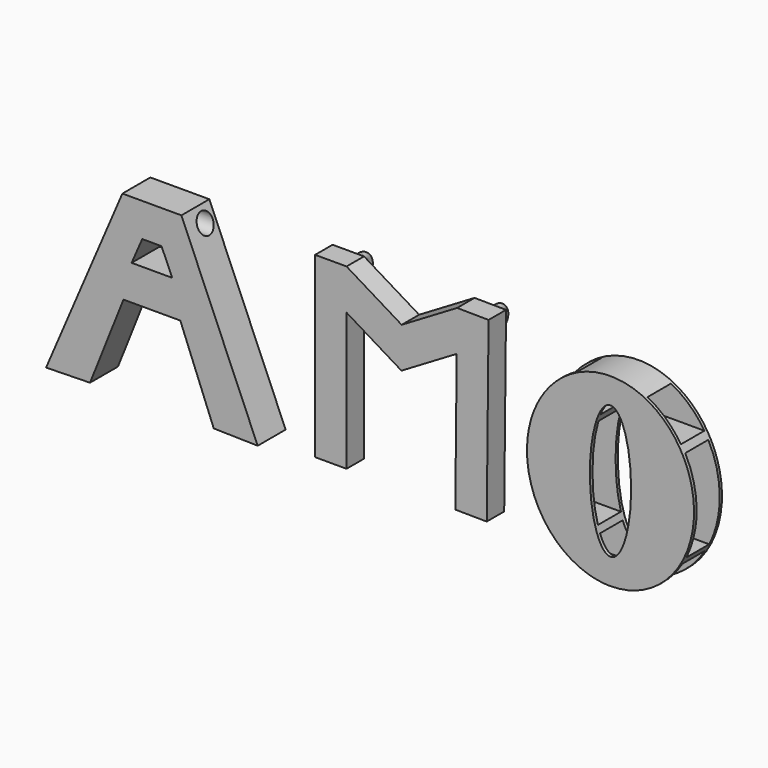
from build123d import *

# Parameters (mm, degrees)
F1_DEPTH       = 10.16
F3_DEPTH       = 6.35
F7_R           = 1.0147763436
F11_R          = 1.1188796437
F14_DEPTH      = 10.16
F16_R          = 2.7422770781
F17_DEPTH      = 25.4
F17_DEPTH_BACK = 25.4
F18_W          = 8.5491519421
F18_H          = 8.9241147507
F18_W_2        = 8.3874454722
F18_H_2        = 26.6651716083
F18_W_3        = 8.2461273414
F18_H_3        = 9.7091495991
F19_DEPTH      = 25.4
F19_DEPTH_BACK = 25.4


with BuildPart() as f1:
    # F0 (on Front) → F1 (new body)
    with BuildSketch(Plane.XZ):
        Polygon((8.5781961679, 0), (-8.5781961679, 0), (-30.7727456093, -51.771376282), (-17.9896689951, -51.4934845269), (-8.263412863, -27.038898319), (8.263412863, -27.038898319), (17.9896689951, -51.4934845269), (30.7727456093, -51.771376282), align=None)
        Polygon((5.8926227503, -16.8640967458), (-5.8926227503, -16.8640967458), (-2.8057238087, -9.7642270848), (2.8057238087, -9.7642270848), align=None, mode=Mode.SUBTRACT)
    extrude(amount=F1_DEPTH)

    # F16 (on Right) → F17 (cut, two sides)
    with BuildSketch(Plane.YZ) as f17_sk:
        with Locations((-3.704237286, -4.0700952522)):
            Circle(F16_R)
    extrude(amount=-F17_DEPTH, mode=Mode.SUBTRACT)
    extrude(f17_sk.sketch, amount=F17_DEPTH_BACK, mode=Mode.SUBTRACT)


with BuildPart() as f3:
    # F2 (on Front) → F3 (new body)
    with BuildSketch(Plane.XZ):
        Polygon((44.4193556905, 0), (44.4193556905, -51.8076792359), (53.5682961345, -51.8076792359), (53.5682961345, -11.7970751484), (69.5341005921, -21.4905999601), (85.5989950273, -11.9621949497), (85.1864927927, -51.9706725682), (94.3349469921, -52.0649965222), (94.86907498, -0.2600707418), (85.7206207805, -0.1657467879), (69.5947253384, -9.7303326959), (53.5682961345, 0), align=None)
        Polygon((44.4193556905, 0), (44.4193556905, -51.8076792359), (53.5682961345, -51.8076792359), (53.5682961345, -11.7970751484), (69.5341005921, -21.4905999601), (85.5989950273, -11.9621949497), (85.1864927927, -51.9706725682), (94.3349469921, -52.0649965222), (94.86907498, -0.2600707418), (85.7206207805, -0.1657467879), (69.5947253384, -9.7303326959), (53.5682961345, 0), align=None)
    extrude(amount=F3_DEPTH)

    # F8: sweep along a path in F6
    with BuildLine(Plane.YZ.offset(90.424)) as f8_path:
        Line((0, -2.2713777634), (2.3672888055, -2.2713777634))
        ThreePointArc((2.3672888055, -2.2713777634), (4.7681431261, -4.672232084), (2.3672888055, -7.0730864045))
        Line((2.3672888055, -7.0730864045), (0, -7.0730864045))
    # F7 (on face) → F8 (sweep)
    with BuildSketch(Plane(origin=(0, 0, 0), x_dir=(-1, 0, 0), z_dir=(0, 1, 0))):
        with Locations((-90.424, -2.2713777634)):
            Circle(F7_R)
    sweep(path=f8_path.line)

    # F12: sweep along a path in F10
    with BuildLine(Plane.YZ.offset(50.8)) as f12_path:
        Line((0, -2.0906312857), (2.3128504399, -2.0906312857))
        ThreePointArc((2.3128504399, -2.0906312857), (4.8720561899, -4.6498370357), (2.3128504399, -7.2090427857))
        Line((2.3128504399, -7.2090427857), (0, -7.2090427857))
    # F11 (on Front) → F12 (sweep)
    with BuildSketch(Plane.XZ):
        with Locations((50.8, -2.0906312857)):
            Circle(F11_R)
    sweep(path=f12_path.line)


with BuildPart() as f14:
    # F13 (on Front) → F14 (new body)
    with BuildSketch(Plane.XZ):
        with BuildLine():
            add(Edge.make_bspline(
                [(133.3755403757, -54.3517478871), (175.4543827327, -54.3517478871), (154.4149615542, -14.0031087613), (133.3755403757, 26.3455303645), (112.3361191972, -14.0031087613), (91.2966980187, -54.3517478871), (133.3755403757, -54.3517478871)],
                knots=[0, 0, 0, 2.0943951024, 2.0943951024, 4.1887902048, 4.1887902048, 6.2831853072, 6.2831853072, 6.2831853072], degree=2, weights=[1, 0.5, 1, 0.5, 1, 0.5, 1]))
        make_face()
        with BuildLine():
            add(Edge.make_bspline(
                [(133.3755403757, -46.8408575095), (143.780368723, -46.8408575095), (138.5779545494, -17.7585539501), (133.3755403757, 11.3237496093), (128.173126202, -17.7585539501), (122.9707120284, -46.8408575095), (133.3755403757, -46.8408575095)],
                knots=[0, 0, 0, 2.0943951024, 2.0943951024, 4.1887902048, 4.1887902048, 6.2831853072, 6.2831853072, 6.2831853072], degree=2, weights=[1, 0.5, 1, 0.5, 1, 0.5, 1]))
        make_face(mode=Mode.SUBTRACT)
    extrude(amount=F14_DEPTH)

    # F18 (on offset) → F19 (cut, two sides)
    with BuildSketch(Plane.YZ.offset(133.35)) as f19_sk:
        with Locations((-5.0842342898, -7.4528319528)):
            Rectangle(F18_W, F18_H)
        with Locations((-5.0033810548, -27.192206122)):
            Rectangle(F18_W_2, F18_H_2)
        with Locations((-5.0781696045, -47.3076552153)):
            Rectangle(F18_W_3, F18_H_3)
    extrude(amount=-F19_DEPTH, mode=Mode.SUBTRACT)
    extrude(f19_sk.sketch, amount=F19_DEPTH_BACK, mode=Mode.SUBTRACT)


solid = Compound([f1.part, f3.part, f14.part])
